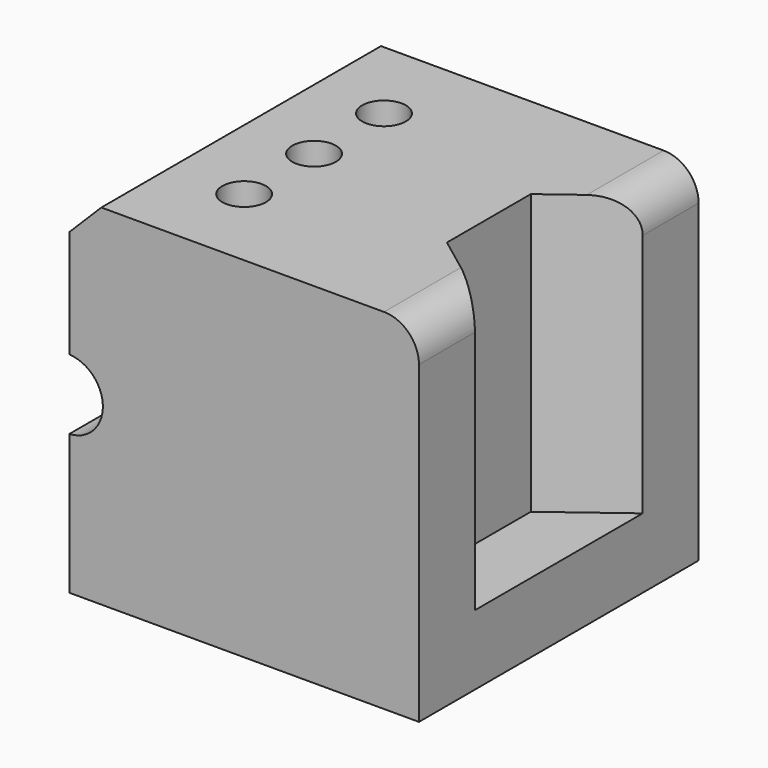
from build123d import *

# Parameters (mm, degrees)
F0_W     = 100
F0_H     = 100
F1_DEPTH = 50
F2_R     = 10
F3_DEPTH = 50
F4_R     = 6.25
F5_DEPTH = 100
F6_DEPTH = 80
F7_R     = 10
F8_R     = 10


with BuildPart() as f1:
    # F0 (on Right) → F1 (new body, symmetric)
    with BuildSketch(Plane.YZ):
        Rectangle(F0_W, F0_H)
    extrude(amount=F1_DEPTH, both=True)

    # F2 (on Front) → F3 (cut, symmetric)
    with BuildSketch(Plane.XZ):
        with Locations((-50.4306741059, 0)):
            Circle(F2_R)
        Polygon((-40.4306741059, 50.4306703806), (-50.4306741059, 50.4306703806), (-50.4306741059, 40.4306703806), align=None)
    extrude(amount=F3_DEPTH, both=True, mode=Mode.SUBTRACT)

    # F4 (on face) → F5 (cut)
    with BuildSketch(Plane.XY.offset(50)):
        with Locations((-20, 25)):
            Circle(F4_R)
        with Locations((-20, 0)):
            Circle(F4_R)
        with Locations((-20, -25)):
            Circle(F4_R)
    extrude(amount=-F5_DEPTH, mode=Mode.SUBTRACT)

    # F4 (on face) → F6 (cut)
    with BuildSketch(Plane.XY.offset(50)):
        Polygon((30, -15), (50, -30), (50, 30), (30, 15), align=None)
    extrude(amount=-F6_DEPTH, mode=Mode.SUBTRACT)

    # F7
    f7_edges = [f1.edges().sort_by_distance(p)[0] for p in [
        (50, 40, 50),
    ]]
    fillet(f7_edges, radius=F7_R)

    # F8
    f8_edges = [f1.edges().sort_by_distance(p)[0] for p in [
        (50, -40, 50),
    ]]
    fillet(f8_edges, radius=F8_R)


solid = f1.part
